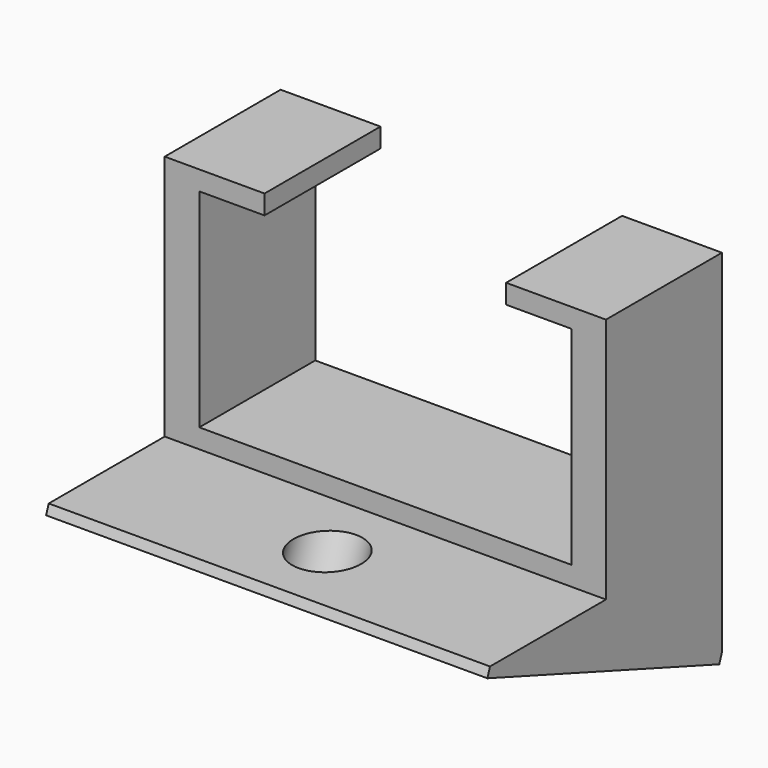
from build123d import *

# Parameters (mm, degrees)
F1_DEPTH = 15
F3_DEPTH = 45.6627906977
F4_R     = 3.5
F5_DEPTH = 3.8400468949
F6_W     = 45.6627906977
F6_H     = 31.9253331743
F6_R     = 3.5
F6_R_2   = 1.5
F7_DEPTH = 1


with BuildPart() as f1:
    # F0 (on Front) → F1 (new body)
    with BuildSketch(Plane.XZ):
        Polygon((19.25, 0), (-19.25, 0), (-19.25, 21.5), (-12.5, 21.5), (-12.5, 23.5), (-22.8313953488, 23.5), (-22.8313953488, -2), (22.8313953488, -2), (22.8313953488, 23.5), (12.5, 23.5), (12.5, 21.5), (19.25, 21.5), align=None)
    extrude(amount=F1_DEPTH)

    # F2 (on face) → F3 (join, through all)
    with BuildSketch(Plane.YZ.offset(22.8313953488)):
        Polygon((0, -2), (-30, -2), (0, -12.919107028), align=None)
    extrude(amount=-F3_DEPTH)

    # F4 (on face) → F5 (cut, through all)
    with BuildSketch(Plane(origin=(0, -4.1521209629, -11.4078585884), x_dir=(1, 0, 0), z_dir=(0, -0.3420201433, -0.9396926208))):
        with Locations((0, 20.459043681)):
            Circle(F4_R)
    extrude(amount=-F5_DEPTH, mode=Mode.SUBTRACT)

    # F6 (on face) → F7 (join)
    with BuildSketch(Plane(origin=(0, -4.1521209629, -11.4078585884), x_dir=(1, 0, 0), z_dir=(0, -0.3420201433, -0.9396926208))):
        with Locations((0, 11.5440717498)):
            Rectangle(F6_W, F6_H)
        with Locations((0, 20.459043681)):
            Circle(F6_R, mode=Mode.SUBTRACT)
        with Locations((0, 20.459043681)):
            Circle(F6_R)
        with Locations((0, 20.459043681)):
            Circle(F6_R_2, mode=Mode.SUBTRACT)
    extrude(amount=F7_DEPTH)


solid = f1.part
